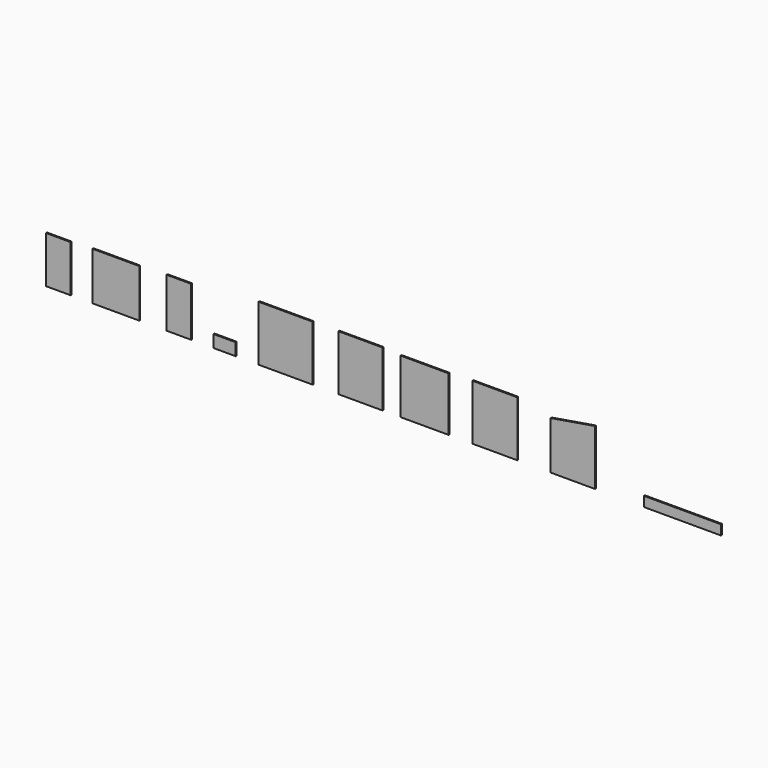
from build123d import *

# Parameters (mm, degrees)
F0_W     = 127
F0_H     = 241.3
F0_W_2   = 241.3
F0_H_2   = 247.65
F0_H_3   = 254
F0_W_3   = 114.3
F0_H_4   = 63.5
F0_W_4   = 279.4
F0_H_5   = 285.75
F0_W_5   = 228.6
F0_W_6   = 247.65
F0_H_6   = 279.4
F0_W_7   = 231.775
F0_W_8   = 396.875
F0_H_7   = 50.8
F1_DEPTH = 6.35


with BuildPart() as f1:
    # F0 (on Front) → F1 (new body)
    with BuildSketch(Plane.XZ):
        with Locations((-416.988122, 52.033625)):
            Rectangle(F0_W, F0_H)
        with Locations((-120.65, 55.208625)):
            Rectangle(F0_W_2, F0_H_2)
        with Locations((204.515183, 58.383625)):
            Rectangle(F0_W, F0_H_3)
        with Locations((440.335551, -36.866375)):
            Rectangle(F0_W_3, F0_H_4)
        with Locations((754.916246, 74.258625)):
            Rectangle(F0_W_4, F0_H_5)
        with Locations((1140.743783, 74.258625)):
            Rectangle(F0_W_5, F0_H_5)
        with Locations((1471.750611, 71.083625)):
            Rectangle(F0_W_6, F0_H_6)
        with Locations((1833.399988, 74.258625)):
            Rectangle(F0_W_7, F0_H_5)
        Polygon((2121.785641, 179.033625), (2121.785641, -68.616375), (2350.385641, -68.616375), (2350.385641, 217.133625), align=None)
        with Locations((2801.194, -43.216375)):
            Rectangle(F0_W_8, F0_H_7)
    extrude(amount=F1_DEPTH)


solid = f1.part
